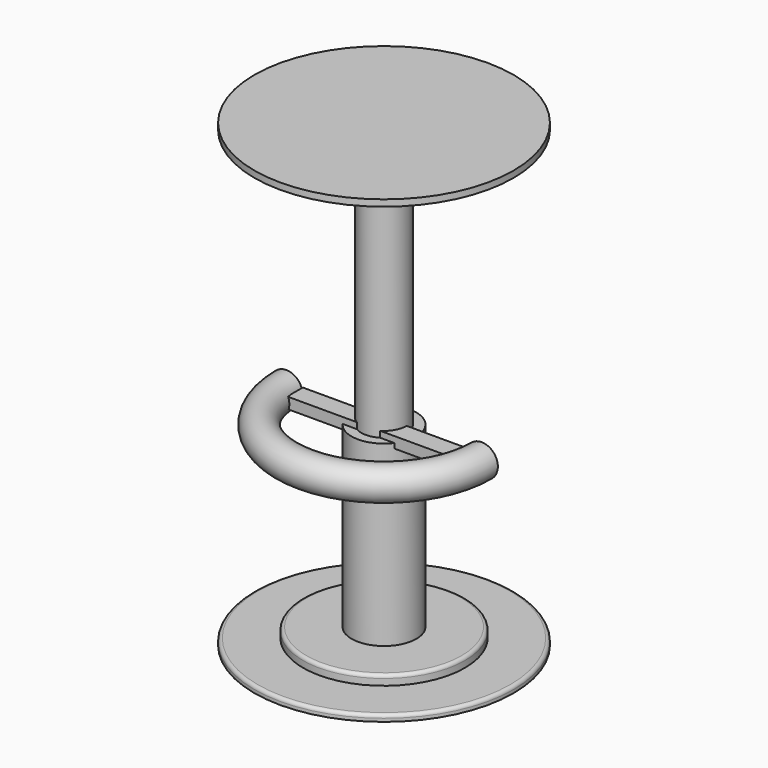
from build123d import *

# Parameters (mm, degrees)
F1_R      = 200
F2_DEPTH  = 10
F3_R      = 125
F4_DEPTH  = 15
F5_R      = 5.08
F6_R      = 50
F7_DEPTH  = 275
F9_R      = 25
F10_ANGLE = 180
F11_DEPTH = 17
F13_R     = 35
F14_DEPTH = 400
F15_R     = 200
F16_DEPTH = 10


with BuildPart() as f2:
    # F1 (on offset) → F2 (new body)
    with BuildSketch(Plane.XY.offset(-299.974)):
        Circle(F1_R)
    extrude(amount=F2_DEPTH)

    # F3 (on face) → F4 (join)
    with BuildSketch(Plane.XY.offset(-289.974)):
        Circle(F3_R)
    extrude(amount=F4_DEPTH)

    # F5
    f5_edges = [f2.edges().sort_by_distance(p)[0] for p in [
        (-200, 0, -289.974),
        (-125, 0, -274.974),
    ]]
    fillet(f5_edges, radius=F5_R)

    # F6 (on face) → F7 (join)
    with BuildSketch(Plane.XY.offset(-274.974)):
        Circle(F6_R)
    extrude(amount=F7_DEPTH)


with BuildPart() as f10:
    # F9 (on Front) → F10 (revolve)
    with BuildSketch(Plane.XZ):
        with Locations((-150.7140100002, 0)):
            Circle(F9_R)
    revolve(axis=Axis((0, 0, -274.974), (0, 0, 1)), revolution_arc=F10_ANGLE)


with BuildPart() as f11:
    # F8 (on Top) → F11 (new body)
    with BuildSketch(Plane.XY):
        Polygon((49.9921217561, 0), (-49.7969053686, 0), (-125.2955198288, 0), (-125.2955198288, -30), (125.2613514662, -30), (125.2613514662, 0), align=None)
    extrude(amount=F11_DEPTH)


with BuildPart() as f11_1:
    # F12: moved
    add(f11.part.moved(Location((0, 0, -7.493))))


with BuildPart() as f14:
    # F13 (on Top) → F14 (new body)
    with BuildSketch(Plane.XY):
        Circle(F13_R)
    extrude(amount=F14_DEPTH)

    # F15 (on face) → F16 (join)
    with BuildSketch(Plane.XY.offset(400)):
        Circle(F15_R)
    extrude(amount=F16_DEPTH)


solid = Compound([f2.part, f10.part, f11_1.part, f14.part])
